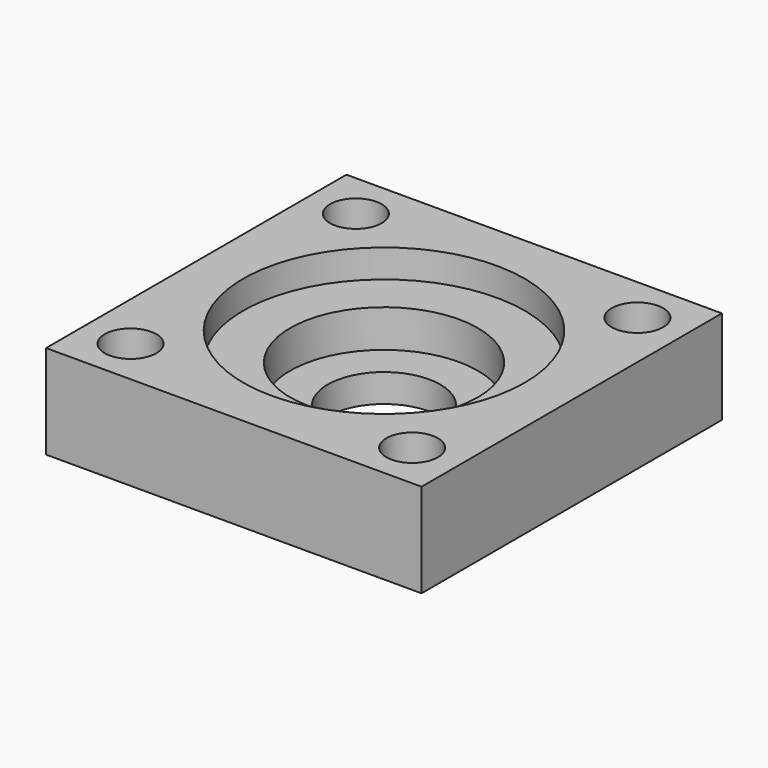
from build123d import *

# Parameters (mm, degrees)
F0_W     = 20
F0_H     = 20
F1_DEPTH = 5
F2_R     = 3
F2_R_2   = 1.375
F3_DEPTH = 25
F4_R     = 5
F5_DEPTH = 3.5
F6_R     = 7.5
F7_DEPTH = 1.5


with BuildPart() as f1:
    # F0 (on Top) → F1 (new body)
    with BuildSketch(Plane.XY):
        with Locations((10, 10)):
            Rectangle(F0_W, F0_H)
    extrude(amount=F1_DEPTH)

    # F2 (on face) → F3 (cut)
    with BuildSketch(Plane.XY.offset(5)):
        with Locations((10, 10)):
            Circle(F2_R)
        with Locations((2.5, 17.5)):
            Circle(F2_R_2)
        with Locations((17.5, 17.5)):
            Circle(F2_R_2)
        with Locations((17.5, 2.5)):
            Circle(F2_R_2)
        with Locations((2.5, 2.5)):
            Circle(F2_R_2)
    extrude(amount=-F3_DEPTH, mode=Mode.SUBTRACT)

    # F4 (on face) → F5 (cut)
    with BuildSketch(Plane.XY.offset(5)):
        with Locations((10, 10)):
            Circle(F4_R)
    extrude(amount=-F5_DEPTH, mode=Mode.SUBTRACT)

    # F6 (on face) + F2 (on face) → F7 (cut)
    with BuildSketch(Plane.XY.offset(5)):
        with Locations((10, 10)):
            Circle(F6_R)
    with BuildSketch(Plane.XY.offset(5)):
        with Locations((10, 10)):
            Circle(F2_R)
        with Locations((2.5, 2.5)):
            Circle(F2_R_2)
        with Locations((2.5, 17.5)):
            Circle(F2_R_2)
        with Locations((17.5, 17.5)):
            Circle(F2_R_2)
        with Locations((17.5, 2.5)):
            Circle(F2_R_2)
    extrude(amount=-F7_DEPTH, mode=Mode.SUBTRACT)


solid = f1.part
